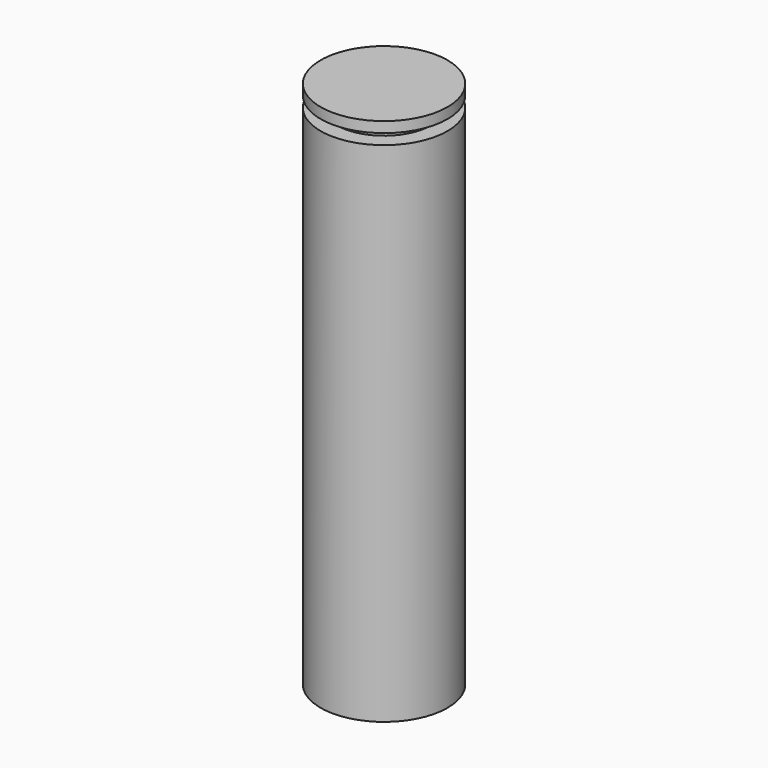
from build123d import *

# Parameters (mm, degrees)
F0_R     = 19.05
F1_DEPTH = 152.4
F2_R     = 14.2875
F3_DEPTH = 3.175
F4_R     = 19.05
F5_DEPTH = 3.175


with BuildPart() as f1:
    # F0 (on Top) → F1 (new body)
    with BuildSketch(Plane.XY):
        Circle(F0_R)
    extrude(amount=-F1_DEPTH)

    # F2 (on face) → F3 (join)
    with BuildSketch(Plane.XY):
        Circle(F2_R)
    extrude(amount=F3_DEPTH)

    # F4 (on face) → F5 (join)
    with BuildSketch(Plane.XY.offset(3.175)):
        Circle(F4_R)
    extrude(amount=F5_DEPTH)


solid = f1.part
